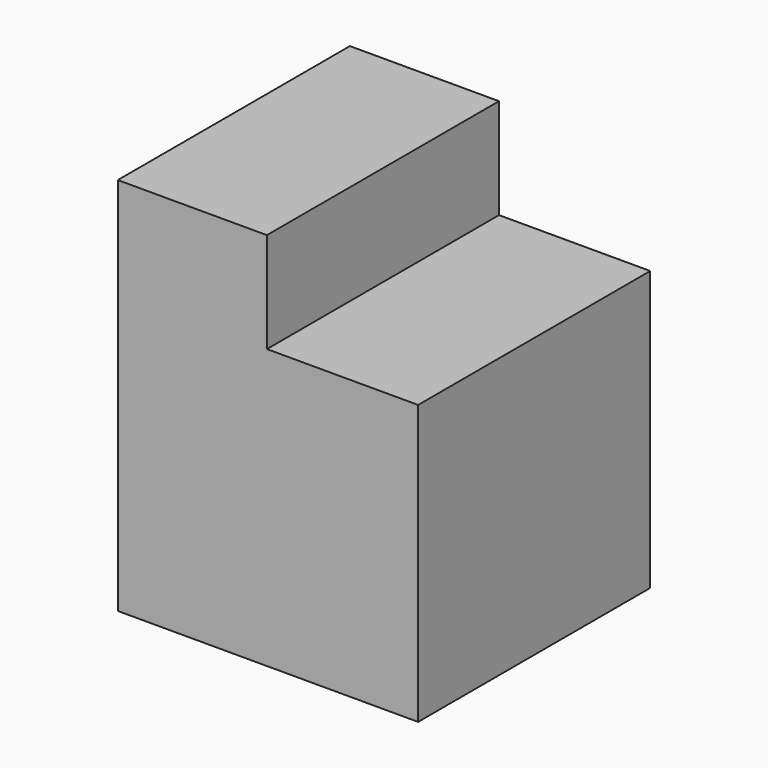
from build123d import *

# Parameters (mm, degrees)
F0_W     = 49.9249994755
F0_H     = 71.728259325
F1_DEPTH = 127
F2_W     = 71.728259325
F2_H     = 93.4169888496
F3_DEPTH = 50.6314188242
F4_DEPTH = 25.4


with BuildPart() as f1:
    # F0 (on Top) → F1 (new body)
    with BuildSketch(Plane.XY):
        with Locations((-24.9624997377, -35.8641296625)):
            Rectangle(F0_W, F0_H)
    extrude(amount=F1_DEPTH)

    # F2 (on face) → F3 (join)
    with BuildSketch(Plane.YZ):
        with Locations((-35.8641296625, 46.7084944248)):
            Rectangle(F2_W, F2_H)
    extrude(amount=F3_DEPTH)

    # F4 (add): a face of the model
    f4_faces = [f1.faces().sort_by_distance(p)[0] for p in [
        (-3.4809309458, -71.728259325, 56.3257611352),
    ]]
    extrude(f4_faces, amount=F4_DEPTH)


solid = f1.part
